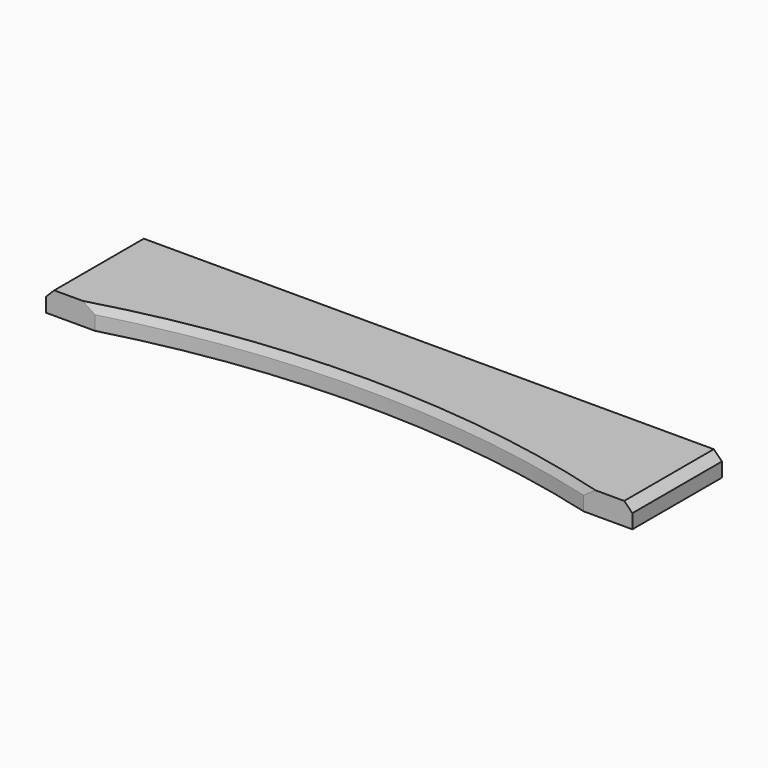
from build123d import *

# Parameters (mm, degrees)
F1_DEPTH = 17.4625
F2_SIZE  = 6.35
F3_SIZE2 = 2.54
F3_SIZE  = 6.35


with BuildPart() as f1:
    # F0 (on Top) → F1 (new body)
    with BuildSketch(Plane.XY):
        with BuildLine():
            Line((0, 87.3125), (0, 0))
            Line((0, 0), (38.1, 0))
            ThreePointArc((38.1, 0), (228.6, 25.4), (419.1, 0))
            Line((419.1, 0), (457.2, 0))
            Line((457.2, 0), (457.2, 87.3125))
            Line((457.2, 87.3125), (0, 87.3125))
        make_face()
    extrude(amount=F1_DEPTH)

    # F2
    f2_edges = [f1.edges().sort_by_distance(p)[0] for p in [
        (0, 43.65625, 17.4625),
        (457.2, 43.65625, 17.4625),
    ]]
    chamfer(f2_edges, length=F2_SIZE)

    # F3
    f3_edges = [f1.edges().sort_by_distance(p)[0] for p in [
        (228.6, 25.4, 17.4625),
    ]]
    f3_side = f1.faces().sort_by_distance((228.6, 25.4, 8.73125))[0]
    chamfer(f3_edges, length=F3_SIZE, length2=F3_SIZE2, reference=f3_side)


solid = f1.part
